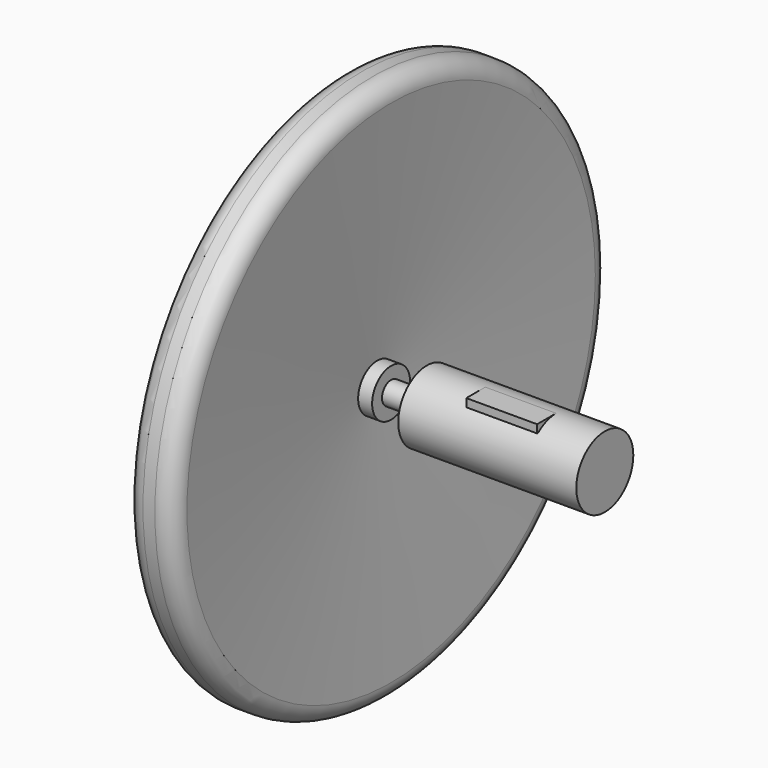
from build123d import *

# Parameters (mm, degrees)
SKETCH001_W  = 5.969217
SKETCH001_H  = 0.730541
POCKET_DEPTH = 33.001
SKETCH002_W  = 5.969217
SKETCH002_H  = 0.683974
PAD_DEPTH    = 2


with BuildPart() as part:
    # Sketch → Revolution (revolve)
    with BuildSketch(Plane.XY):
        with BuildLine():
            Line((1.5, 23), (2.5, 23))
            ThreePointArc((4, 21.5), (3.5606601718, 22.5606601718), (2.5, 23))
            Line((2.820253, 2), (4, 21.5))
            Line((4, 2), (2.820253, 2))
            Line((4, 0.960387), (4, 2))
            Line((4, 0.960387), (7, 0.960387))
            Line((7, 0.960387), (7, 3))
            Line((7, 3), (22, 3))
            Line((22, 3), (22, 0))
            Line((22, 0), (0, 0))
            Line((0, 0), (0, 2))
            Line((0, 2), (1.179747, 2))
            Line((1.179747, 2), (0, 21.5))
            ThreePointArc((1.5, 23), (0.4393398282, 22.5606601718), (0, 21.5))
        make_face()
    revolve(axis=Axis((0, 0, 0), (1, 0, 0)))

    # Sketch001 → Pocket (cut, through all)
    with BuildSketch(Plane.XY.offset(10)):
        with Locations((14.9151665, 2.6347295)):
            Rectangle(SKETCH001_W, SKETCH001_H)
    extrude(amount=-POCKET_DEPTH, mode=Mode.SUBTRACT)

    # Sketch002 → Pad (join)
    with BuildSketch(Plane.XZ):
        with Locations((14.9151665, 2.658013)):
            Rectangle(SKETCH002_W, SKETCH002_H)
    extrude(amount=PAD_DEPTH)


solid = part.part
